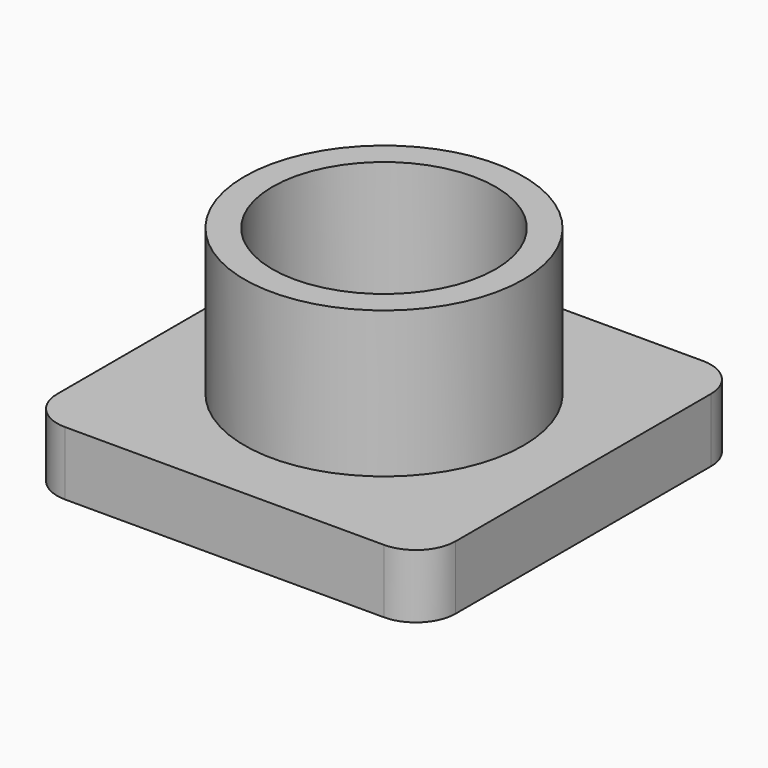
from build123d import *

# Parameters (mm, degrees)
SKETCH006_W     = 30
SKETCH006_H     = 30
PAD003_DEPTH    = 4.8
SKETCH007_R     = 10.5
PAD004_DEPTH    = 11
SKETCH008_R     = 8.4
POCKET003_DEPTH = 12
SKETCH011_R     = 6.5
POCKET004_DEPTH = 3.801
FILLET002_R     = 3


with BuildPart() as part:
    # Sketch006 → Pad003 (new body)
    with BuildSketch(Plane.XY):
        Rectangle(SKETCH006_W, SKETCH006_H)
    extrude(amount=PAD003_DEPTH)

    # Sketch007 (on Face6 of Pad003) → Pad004 (join)
    with BuildSketch(Plane.XY.offset(4.8)):
        Circle(SKETCH007_R)
    extrude(amount=PAD004_DEPTH)

    # Sketch008 (on Face8 of Pad004) → Pocket003 (cut)
    with BuildSketch(Plane.XY.offset(15.8)):
        Circle(SKETCH008_R)
    extrude(amount=-POCKET003_DEPTH, mode=Mode.SUBTRACT)

    # Sketch011 (on Face10 of Pocket003) → Pocket004 (cut, through all)
    with BuildSketch(Plane.XY.offset(3.8)):
        Circle(SKETCH011_R)
    extrude(amount=-POCKET004_DEPTH, mode=Mode.SUBTRACT)

    # Fillet002
    fillet002_edges = [part.edges().sort_by_distance(p)[0] for p in [
        (15, -15, 2.4),
        (-15, -15, 2.4),
        (15, 15, 2.4),
        (-15, 15, 2.4),
    ]]
    fillet(fillet002_edges, radius=FILLET002_R)


with BuildPart() as part_1:
    # Body003 placement: moved
    add(part.part.moved(Location((60, 18, 0))))


solid = part_1.part
